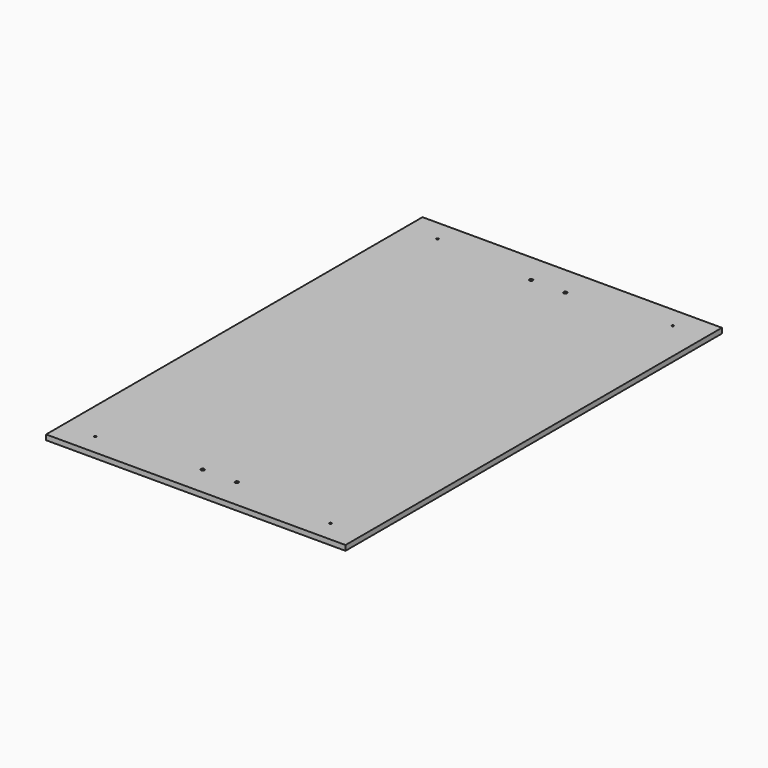
from build123d import *

# Parameters (mm, degrees)
F0_W     = 700
F0_H     = 1100
F1_DEPTH = 12
F2_R     = 2.5
F3_DEPTH = 12.001
F4_D     = 8


with BuildPart() as f1:
    # F0 (on Top) → F1 (new body)
    with BuildSketch(Plane.XY):
        Rectangle(F0_W, F0_H)
    extrude(amount=F1_DEPTH)

    # F2 (on face) → F3 (cut, through all)
    with BuildSketch(Plane.XY.offset(12)):
        with Locations((-275, -500)):
            Circle(F2_R)
        with Locations((275, -500)):
            Circle(F2_R)
        with Locations((-275, 500)):
            Circle(F2_R)
        with Locations((275, 500)):
            Circle(F2_R)
    extrude(amount=-F3_DEPTH, mode=Mode.SUBTRACT)

    # F4 (through all)
    with Locations(Plane.XY.offset(12)):
        with Locations((40, 480), (-40, 480), (40, -480), (-40, -480)):
            Hole(F4_D / 2)


solid = f1.part
